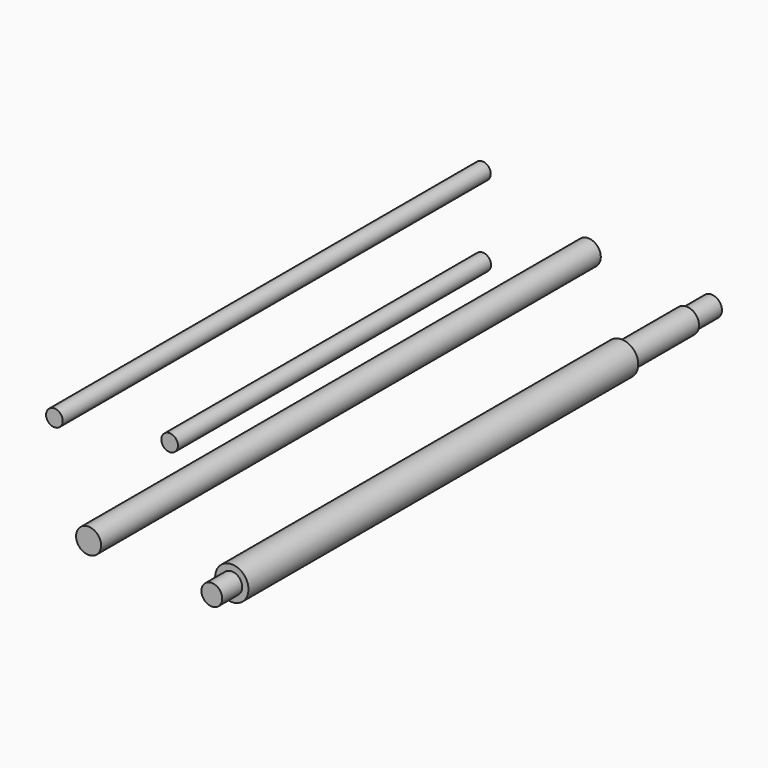
from build123d import *

# Parameters (mm, degrees)
F0_R      = 4
F1_DEPTH  = 256.9718
F2_DEPTH  = 187.96
F0_R_2    = 6
F3_DEPTH  = 300
F0_R_3    = 8
F4_DEPTH  = 246
F5_R      = 8
F5_R_2    = 5
F6_DEPTH  = 12
F7_R      = 6
F8_DEPTH  = 39
F9_R      = 5
F10_DEPTH = 15


with BuildPart() as f1:
    # F0 (on Front) → F1 (new body)
    with BuildSketch(Plane.XZ):
        with Locations((-61.713874, 42.564563)):
            Circle(F0_R)
    extrude(amount=F1_DEPTH)


with BuildPart() as f2:
    # F0 (on Front) → F2 (new body)
    with BuildSketch(Plane.XZ):
        with Locations((-61.574522, 4.072397)):
            Circle(F0_R)
    extrude(amount=F2_DEPTH)


with BuildPart() as f3:
    # F0 (on Front) → F3 (new body)
    with BuildSketch(Plane.XZ):
        with Locations((-10.865248, 24.599828)):
            Circle(F0_R_2)
    extrude(amount=F3_DEPTH)


with BuildPart() as f4:
    # F0 (on Front) → F4 (new body)
    with BuildSketch(Plane.XZ):
        with Locations((5.116754, -14.955557)):
            Circle(F0_R_3)
    extrude(amount=F4_DEPTH)

    # F5 (on face) → F6 (cut)
    with BuildSketch(Plane.XZ.offset(246)):
        with Locations((5.116754, -14.955557)):
            Circle(F5_R)
        with Locations((5.116754, -14.955557)):
            Circle(F5_R_2, mode=Mode.SUBTRACT)
    extrude(amount=-F6_DEPTH, mode=Mode.SUBTRACT)

    # F7 (on face) → F8 (join)
    with BuildSketch(Plane.XZ):
        with Locations((5.116754, -14.955557)):
            Circle(F7_R)
    extrude(amount=-F8_DEPTH)

    # F9 (on face) → F10 (join)
    with BuildSketch(Plane(origin=(0, 39, 0), x_dir=(-1, 0, 0), z_dir=(0, 1, 0))):
        with Locations((-5.116754, -14.955557)):
            Circle(F9_R)
    extrude(amount=F10_DEPTH)


solid = Compound([f1.part, f2.part, f3.part, f4.part])
